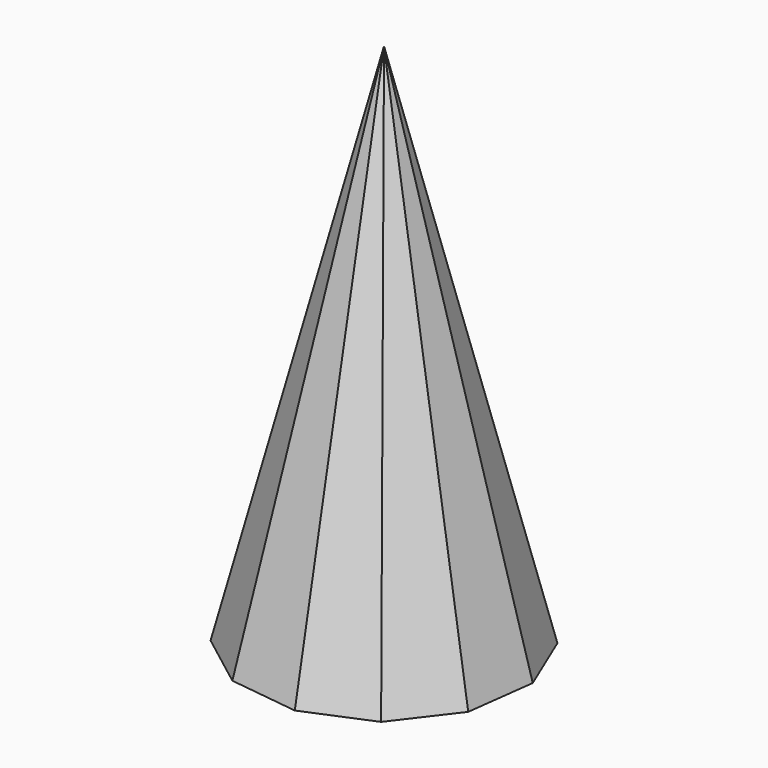
from build123d import *


with BuildPart() as f2:
    # F0 (on Top) → F2 section 0
    with BuildSketch(Plane.XY, mode=Mode.PRIVATE) as f2_s0:
        Polygon((577.757313, -747.278877), (873.991949, -358.283835), (936.041148, 126.713072), (747.278877, 577.757313), (358.283835, 873.991949), (-126.713072, 936.041148), (-577.757313, 747.278877), (-873.991949, 358.283835), (-936.041148, -126.713072), (-747.278877, -577.757313), (-358.283835, -873.991949), (126.713072, -936.041148), align=None)
    loft([f2_s0.sketch, Vertex(0, 0, 3657.6)])


solid = f2.part
